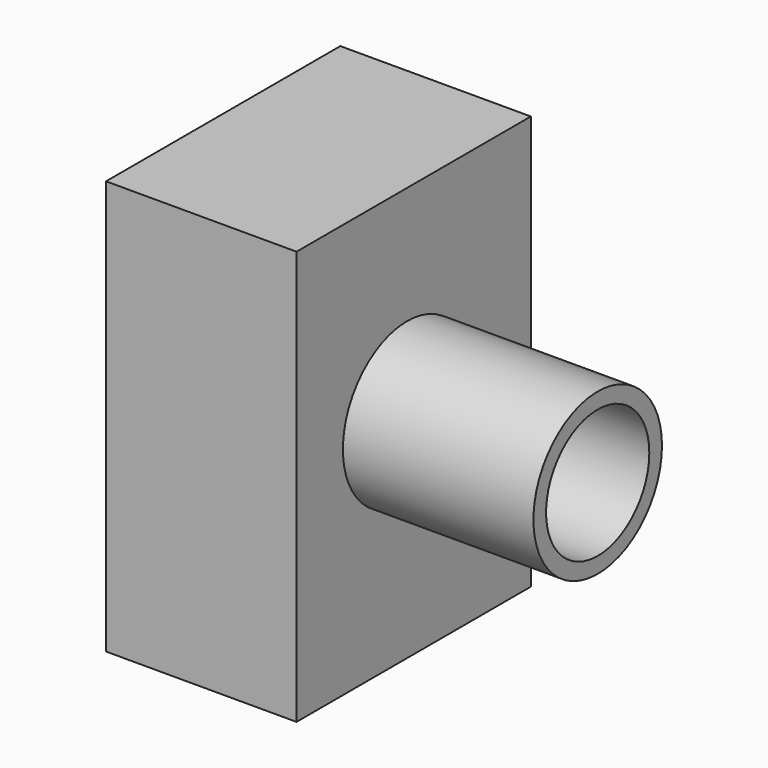
from build123d import *

# Parameters (mm, degrees)
F0_R     = 10.711856
F0_R_2   = 8.597531
F1_DEPTH = 50.8
F0_W     = 39.041024
F0_H     = 55.187622
F2_DEPTH = 25.4


with BuildPart() as f1:
    # F0 (on Right) → F1 (new body)
    with BuildSketch(Plane.YZ):
        with Locations((0, 11.128576)):
            Circle(F0_R)
        with Locations((0, 11.128576)):
            Circle(F0_R_2, mode=Mode.SUBTRACT)
    extrude(amount=F1_DEPTH)

    # F0 (on Right) → F2 (join)
    with BuildSketch(Plane.YZ):
        with Locations((1.084473, 9.880754)):
            Rectangle(F0_W, F0_H)
        with Locations((0, 11.128576)):
            Circle(F0_R, mode=Mode.SUBTRACT)
    extrude(amount=F2_DEPTH)


solid = f1.part
